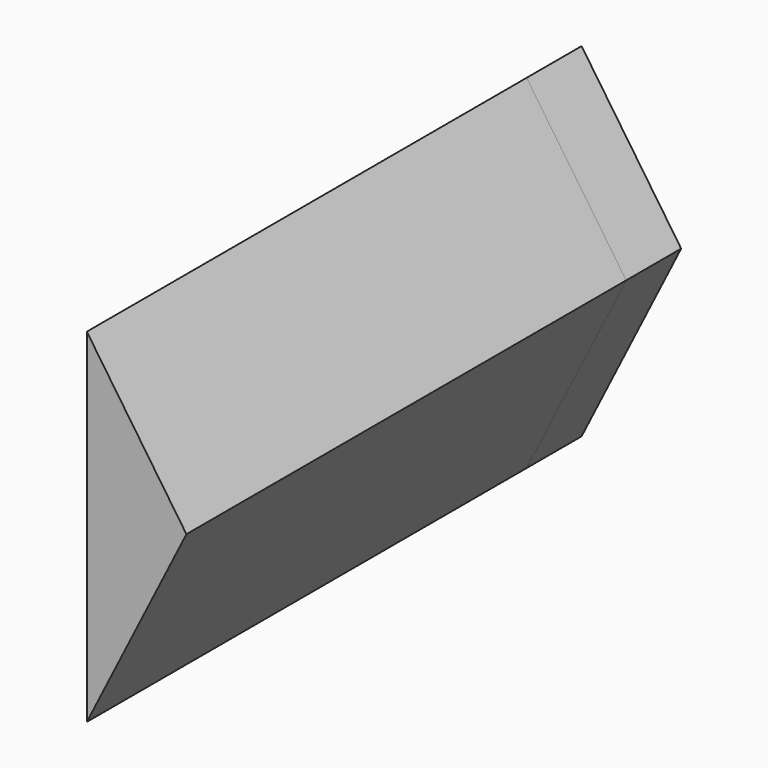
from build123d import *

# Parameters (mm, degrees)
F1_DEPTH = 25.4
F2_DEPTH = 203.2


with BuildPart() as f1:
    # F0 (on Front) → F1 (new body)
    with BuildSketch(Plane.XZ):
        Polygon((153.825775, 24.501903), (117.014769, 78.438297), (117.014769, -48.561703), align=None)
    extrude(amount=-F1_DEPTH)

    # F1_face (on face) → F2 (join)
    with BuildSketch(Plane(origin=(129.285104, 0, 18.126165), x_dir=(1, 0, 0), z_dir=(0, -1, 0))):
        Polygon((-12.270335, -66.687869), (24.540671, 6.375738), (-12.270335, 60.312131), align=None)
    extrude(amount=F2_DEPTH)


solid = f1.part
